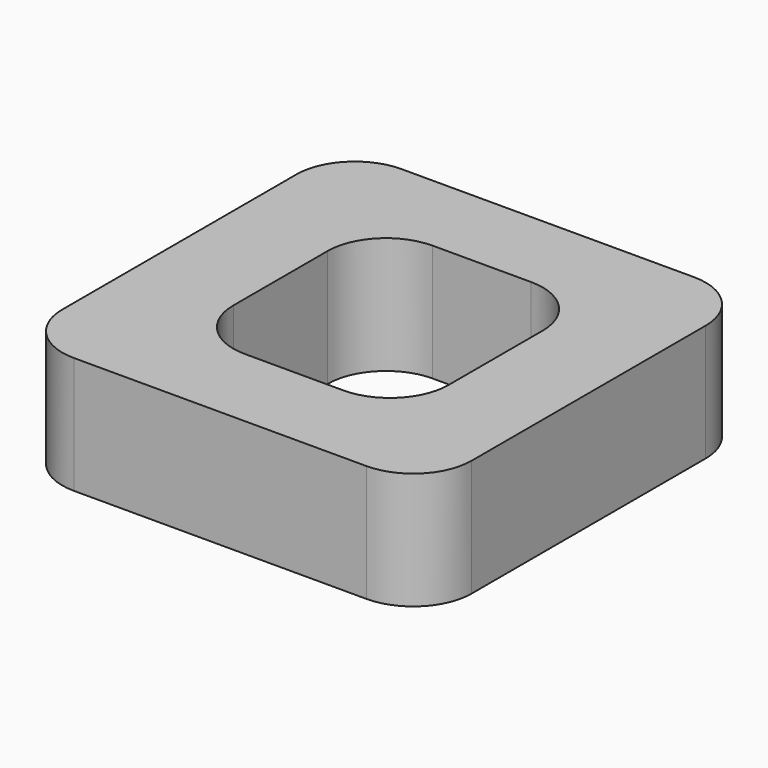
from build123d import *

# Parameters (mm, degrees)
F0_W     = 35
F0_H     = 35
F1_DEPTH = 10
F2_W     = 18.406059
F2_H     = 20.067719
F3_DEPTH = 25
F4_R     = 5


with BuildPart() as f1:
    # F0 (on Top) → F1 (new body)
    with BuildSketch(Plane.XY):
        with Locations((-30.465538, 24.800614)):
            Rectangle(F0_W, F0_H)
    extrude(amount=F1_DEPTH)

    # F2 (on Top) → F3 (cut)
    with BuildSketch(Plane.XY):
        with Locations((-30.214937, 24.916981)):
            Rectangle(F2_W, F2_H)
    extrude(amount=F3_DEPTH, mode=Mode.SUBTRACT)

    # F4
    f4_edges = [f1.edges().sort_by_distance(p)[0] for p in [
        (-12.965538, 42.300614, 5),
        (-47.965538, 42.300614, 5),
        (-47.965538, 7.300614, 5),
        (-12.965538, 7.300614, 5),
        (-21.011908, 14.883122, 5),
        (-39.417967, 14.883122, 5),
        (-39.417967, 34.950841, 5),
        (-21.011908, 34.950841, 5),
    ]]
    fillet(f4_edges, radius=F4_R)


solid = f1.part
